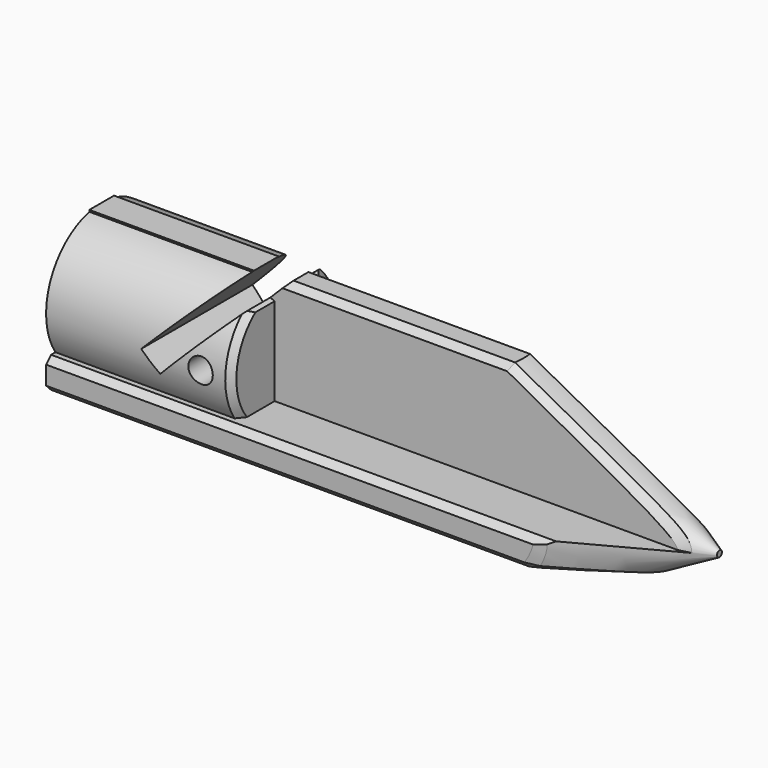
from build123d import *

# Parameters (mm, degrees)
BOX002_W               = 3.96875
BOX002_H               = 22.5
BOX002_DEPTH           = 25.4
BOX002_PLACEMENT_ANGLE = 45
CYLINDER002_R          = 1.98438
CYLINDER002_DEPTH      = 22.5
CYLINDER001_R          = 9.45
CYLINDER001_DEPTH      = 15
BOX001_W               = 100
BOX001_H               = 17.5
BOX001_DEPTH           = 5
CYLINDER_R             = 11.25
CYLINDER_DEPTH         = 30
BOX_W                  = 100
BOX_H                  = 22.5
BOX_DEPTH              = 5
CHAMFER_SIZE           = 1
CHAMFER001_SIZE        = 1
CHAMFER002_SIZE        = 1
CHAMFER003_SIZE        = 1


with BuildPart() as cube002:
    # Box002 → Box002 (new body)
    with BuildSketch(Plane.XY):
        with Locations((1.984375, 11.25)):
            Rectangle(BOX002_W, BOX002_H)
    extrude(amount=BOX002_DEPTH)


with BuildPart() as cube002_1:
    # Box002 placement: moved
    add(cube002.part.moved(Location((15.4, 0, 11.25))).rotate(Axis((15.4, 0, 11.25), (0, 1, 0)), BOX002_PLACEMENT_ANGLE))


with BuildPart() as cylinder:
    # Cylinder002 → Cylinder002 (new body)
    with BuildSketch(Plane(origin=(25, 22.5, 11.25), x_dir=(1, 0, 0), z_dir=(0, -1, 0))):
        Circle(CYLINDER002_R)
    extrude(amount=CYLINDER002_DEPTH)


with BuildPart() as cone:
    # Cone → Cone (revolve)
    with BuildSketch(Plane(origin=(100, 11.25, 5), x_dir=(0, 0, 1), z_dir=(0, -1, 0))):
        Polygon((0, 0), (0.500126, 0), (54, 100), (0, 100), align=None)
    revolve(axis=Axis((100, 11.25, 5), (-1, 0, 0)))


with BuildPart() as head_socket:
    # Cylinder001 → Cylinder001 (new body)
    with BuildSketch(Plane(origin=(15, 11.25, 11.25), x_dir=(0, 0, 1), z_dir=(-1, 0, 0))):
        Circle(CYLINDER001_R)
    extrude(amount=CYLINDER001_DEPTH)


with BuildPart() as cube001:
    # Box001 → Box001 (new body)
    with BuildSketch(Plane(origin=(0, 13.75, 5), x_dir=(1, 0, 0), z_dir=(0, -1, 0))):
        with Locations((50, 8.75)):
            Rectangle(BOX001_W, BOX001_H)
    extrude(amount=BOX001_DEPTH)


with BuildPart() as head:
    # Cylinder → Cylinder (new body)
    with BuildSketch(Plane(origin=(30, 11.25, 11.25), x_dir=(0, 0, 1), z_dir=(-1, 0, 0))):
        Circle(CYLINDER_R)
    extrude(amount=CYLINDER_DEPTH)


with BuildPart() as chamfer003:
    # Box → Box (new body)
    with BuildSketch(Plane.XY):
        with Locations((50, 11.25)):
            Rectangle(BOX_W, BOX_H)
    extrude(amount=BOX_DEPTH)

    # Fusion: union Cube001, head
    add(cube001.part)
    add(head.part)

    # Cut: cut head_socket
    add(head_socket.part, mode=Mode.SUBTRACT)

    # Common: intersect Cone
    add(cone.part, mode=Mode.INTERSECT)

    # Cut001: cut Cylinder
    add(cylinder.part, mode=Mode.SUBTRACT)

    # Cut002: cut Cube002
    add(cube002_1.part, mode=Mode.SUBTRACT)

    # Chamfer
    chamfer_edges = [chamfer003.edges().sort_by_distance(p)[0] for p in [
        (82.674732, 8.75, 14.443821),
        (82.674732, 13.75, 14.443821),
    ]]
    chamfer(chamfer_edges, length=CHAMFER_SIZE)

    # Chamfer001
    chamfer001_edges = [chamfer003.edges().sort_by_distance(p)[0] for p in [
        (39.953365, 0, 5),
        (49.025471, 8.75, 22.5),
        (91.589001, 11.249442, 0),
        (79.328162, 0, 2.342877),
        (38.961706, 0, 0),
        (49.025471, 13.75, 22.5),
        (39.953365, 22.5, 5),
        (38.961706, 22.5, 0),
    ]]
    chamfer(chamfer001_edges, length=CHAMFER001_SIZE)

    # Chamfer002
    chamfer002_edges = [chamfer003.edges().sort_by_distance(p)[0] for p in [
        (79.369559, 22.5, 2.440942),
    ]]
    chamfer(chamfer002_edges, length=CHAMFER002_SIZE)

    # Chamfer003
    chamfer003_edges = [chamfer003.edges().sort_by_distance(p)[0] for p in [
        (30, 22.341245, 13.13329),
        (30, 15.883424, 20.23734),
        (30, 6.616576, 20.23734),
        (30, 0.158755, 13.13329),
    ]]
    chamfer(chamfer003_edges, length=CHAMFER003_SIZE)


solid = chamfer003.part
